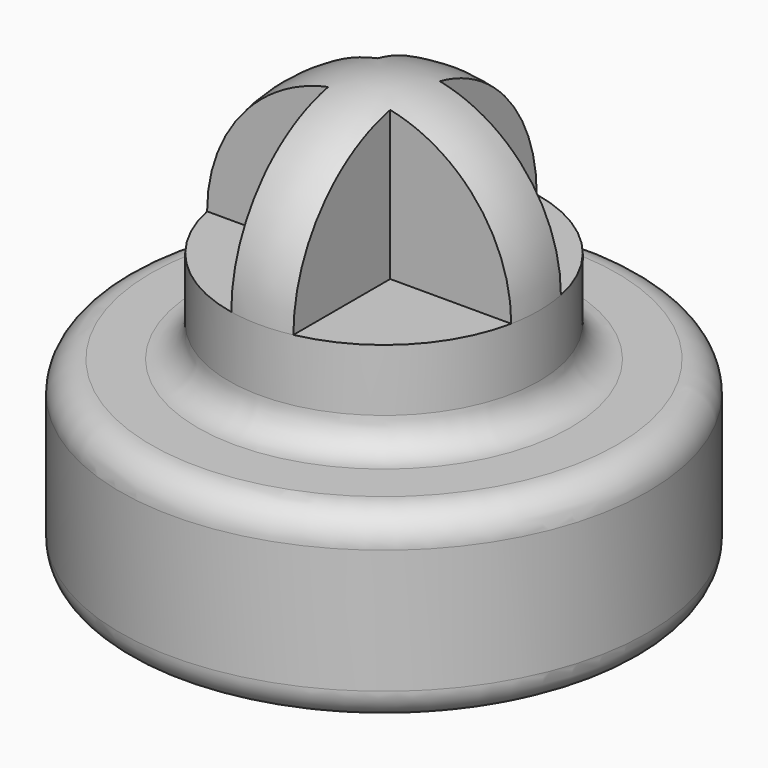
from build123d import *

# Parameters (mm, degrees)
F0_R     = 4.25
F1_DEPTH = 3
F2_R     = 2.5
F3_DEPTH = 1.5
F6_W     = 3
F6_H     = 3
F7_DEPTH = 25
F8_COUNT = 4
F10_R    = 0.5


with BuildPart() as f1:
    # F0 (on Top) → F1 (new body)
    with BuildSketch(Plane.XY):
        Circle(F0_R)
    extrude(amount=F1_DEPTH)

    # F2 (on face) → F3 (join)
    with BuildSketch(Plane.XY.offset(3)):
        Circle(F2_R)
    extrude(amount=F3_DEPTH)

    # F4 (on Right) → F5 (revolve)
    with BuildSketch(Plane.YZ):
        with BuildLine():
            Line((-2.5, 4.5), (0, 4.5))
            Line((0, 4.5), (0, 7))
            ThreePointArc((0, 7), (-1.767766953, 6.267766953), (-2.5, 4.5))
        make_face()
    revolve(axis=Axis((0, 0, 5.75), (0, 0, -1)))


with BuildPart() as f7:
    # F6 (on face) → F7 (new body)
    with BuildSketch(Plane.XY.offset(4.5)):
        with Locations((2, -2)):
            Rectangle(F6_W, F6_H)
        with Locations((2, -2)):
            Rectangle(F6_W, F6_H)
    extrude(amount=F7_DEPTH)


with BuildPart() as f8_1:
    # F8: instance of F7
    add(f7.part.rotate(Axis((0, 0, 5.75), (0, 0, -1)), 1 * 360 / F8_COUNT))


with BuildPart() as f8_2:
    # F8: instance of F7
    add(f7.part.rotate(Axis((0, 0, 5.75), (0, 0, -1)), 2 * 360 / F8_COUNT))


with BuildPart() as f8_3:
    # F8: instance of F7
    add(f7.part.rotate(Axis((0, 0, 5.75), (0, 0, -1)), 3 * 360 / F8_COUNT))


with BuildPart() as f1_1:
    add(f1.part)

    # F9: cut F8_1, F8_2, F8_3, F7
    add(f8_1.part, mode=Mode.SUBTRACT)
    add(f8_2.part, mode=Mode.SUBTRACT)
    add(f8_3.part, mode=Mode.SUBTRACT)
    add(f7.part, mode=Mode.SUBTRACT)

    # F10
    f10_edges = [f1_1.edges().sort_by_distance(p)[0] for p in [
        (-4.25, 0, 3),
        (-4.25, 0, 0),
        (-2.5, 0, 3),
    ]]
    fillet(f10_edges, radius=F10_R)


solid = f1_1.part
